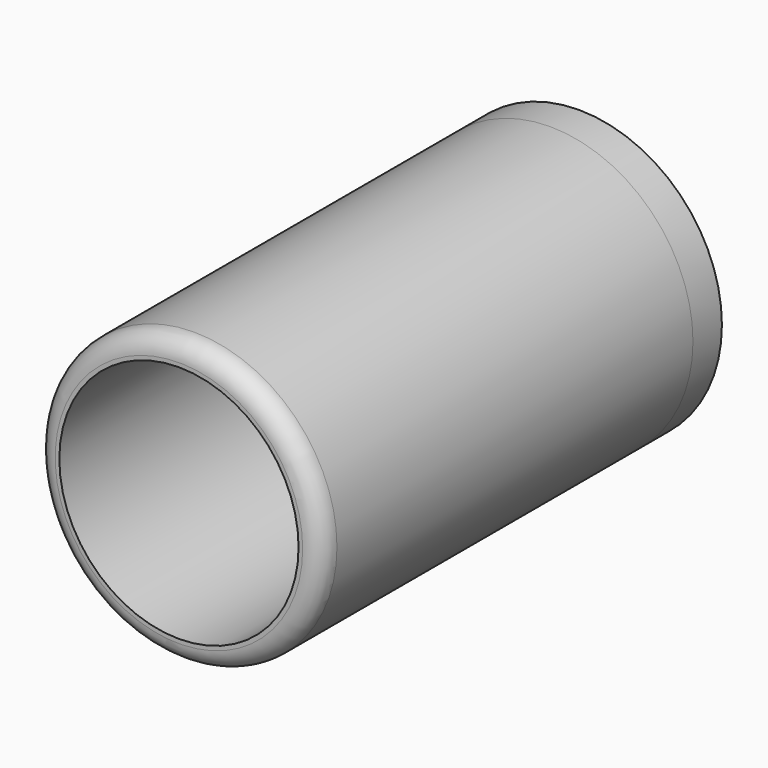
from build123d import *

# Parameters (mm, degrees)
F0_R     = 38.1
F0_R_2   = 31.9176226604
F1_DEPTH = 123.825
F2_R     = 5.08
F0_R_3   = 31.75
F3_DEPTH = 9.652


with BuildPart() as f1:
    # F0 (on Front) → F1 (new body)
    with BuildSketch(Plane.XZ):
        Circle(F0_R)
        Circle(F0_R_2, mode=Mode.SUBTRACT)
    extrude(amount=F1_DEPTH)

    # F2
    f2_edges = [f1.edges().sort_by_distance(p)[0] for p in [
        (-38.1, -123.825, 0),
    ]]
    fillet(f2_edges, radius=F2_R)


with BuildPart() as f3:
    # F0 (on Front) → F3 (new body)
    with BuildSketch(Plane.XZ):
        Circle(F0_R_3)
    extrude(amount=-F3_DEPTH)


with BuildPart() as f3b:
    # F0 (on Front) → F3, piece 2 (new body)
    with BuildSketch(Plane.XZ):
        Circle(F0_R)
        Circle(F0_R_2, mode=Mode.SUBTRACT)
    extrude(amount=-F3_DEPTH)


solid = Compound([f1.part, f3.part, f3b.part])
